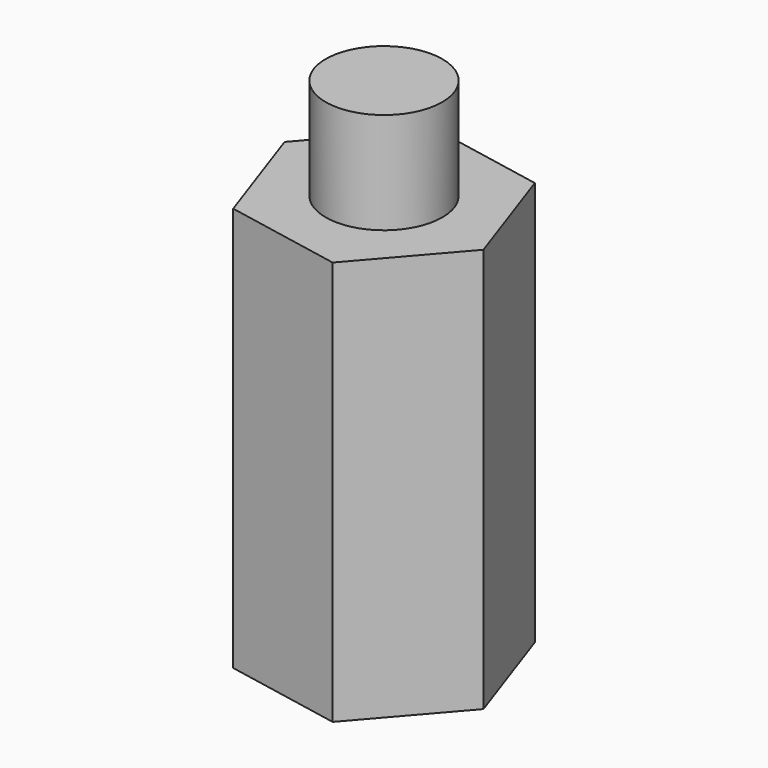
from build123d import *

# Parameters (mm, degrees)
F0_R     = 26.8270894081
F1_DEPTH = 55.372
F2_R     = 20.1512437213
F3_DEPTH = 90.424
F4_DEPTH = 84.328


with BuildPart() as f1:
    # F0 (on Top) → F1 (new body)
    with BuildSketch(Plane.XY):
        Polygon((-13.5254997487, 39.0910579561), (-40.6165991252, 7.8321025968), (-27.0910993765, -31.2589553593), (13.5254997487, -39.0910579561), (40.6165991252, -7.8321025968), (27.0910993765, 31.2589553593), align=None)
        Circle(F0_R, mode=Mode.SUBTRACT)
        Circle(F0_R)
    extrude(amount=F1_DEPTH)

    # F2 (on Top) → F3 (join)
    with BuildSketch(Plane.XY):
        Circle(F2_R)
    extrude(amount=F3_DEPTH)

    # F4 (add): a face of the model
    f4_faces = [f1.faces().sort_by_distance(p)[0] for p in [
        (0, 0, 0),
    ]]
    extrude(f4_faces, amount=F4_DEPTH)


solid = f1.part
